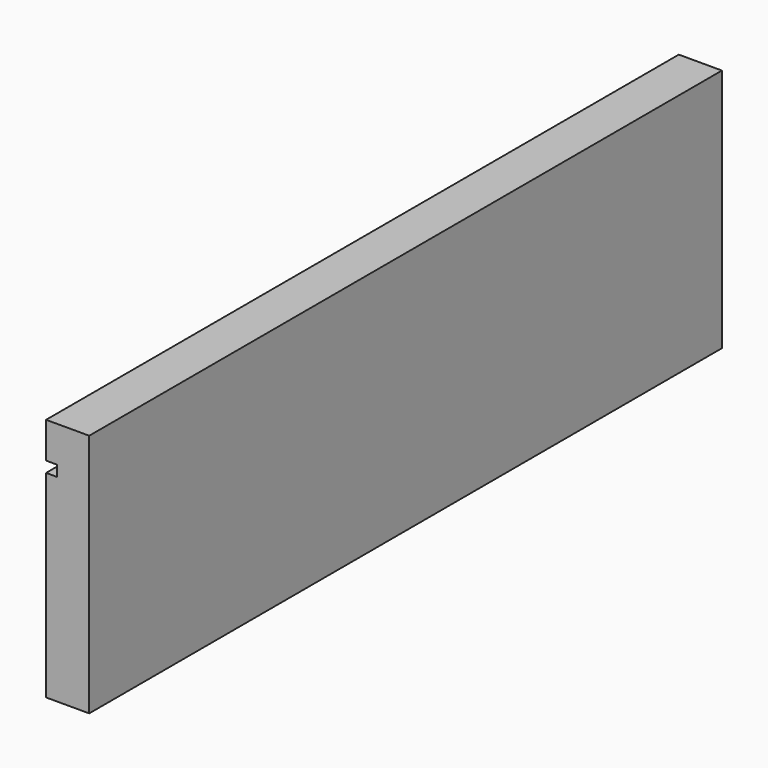
from build123d import *

# Parameters (mm, degrees)
F0_W     = 220
F0_H     = 68
F1_DEPTH = 12
F2_W     = 3
F2_H     = 3
F3_DEPTH = 500


with BuildPart() as f1:
    # F0 (on Right) → F1 (new body)
    with BuildSketch(Plane.YZ):
        Rectangle(F0_W, F0_H)
    extrude(amount=F1_DEPTH)

    # F2 (on face) → F3 (cut)
    with BuildSketch(Plane.XZ.offset(110)):
        with Locations((1.5, 22.5)):
            Rectangle(F2_W, F2_H)
    extrude(amount=-F3_DEPTH, mode=Mode.SUBTRACT)


solid = f1.part
